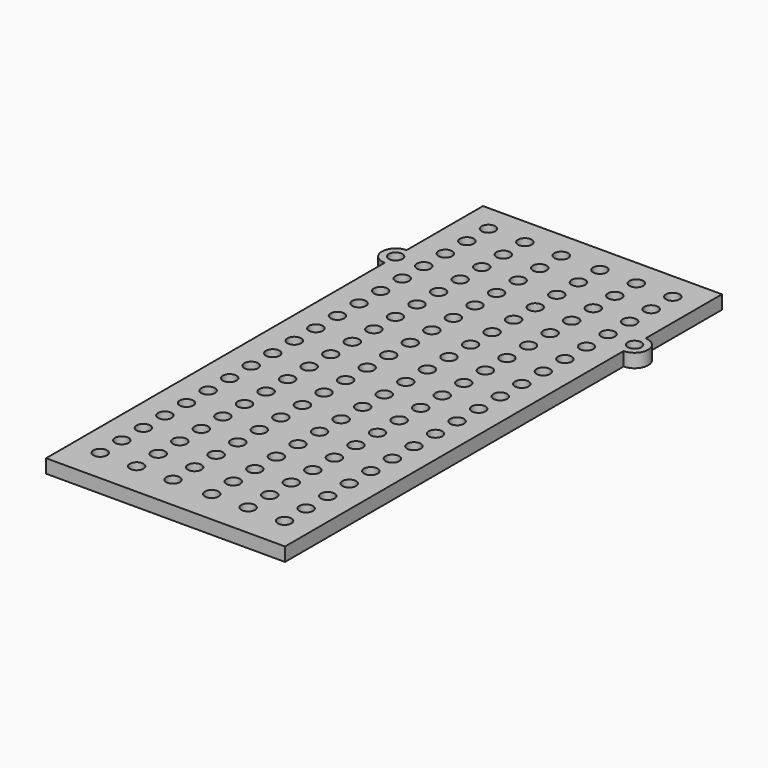
from build123d import *

# Parameters (mm, degrees)
F0_R     = 1.5
F1_DEPTH = 3
F2_R     = 1.5
F3_DEPTH = 25


with BuildPart() as f1:
    # F0 (on Top) → F1 (new body)
    with BuildSketch(Plane.XY):
        with BuildLine():
            Line((26.25, 60), (-26.25, 60))
            Line((-26.25, 60), (-26.25, 39))
            ThreePointArc((-26.25, 39), (-29.25, 36), (-26.25, 33))
            Line((-26.25, 33), (-26.25, -60))
            Line((-26.25, -60), (26.25, -60))
            Line((26.25, -60), (26.25, 33))
            ThreePointArc((26.25, 33), (29.25, 36), (26.25, 39))
            Line((26.25, 39), (26.25, 60))
        make_face()
        with Locations((-26.25, 36)):
            Circle(F0_R, mode=Mode.SUBTRACT)
        with Locations((26.25, 36)):
            Circle(F0_R, mode=Mode.SUBTRACT)
    extrude(amount=F1_DEPTH)

    # F2 (on face) → F3 (cut)
    with BuildSketch(Plane.XY.offset(3)):
        with Locations((-20.25, 54)):
            Circle(F2_R)
        with Locations((20.25, 54)):
            Circle(F2_R)
        with Locations((-12.25, 54)):
            Circle(F2_R)
        with Locations((12.25, 54)):
            Circle(F2_R)
        with Locations((-4.25, 54)):
            Circle(F2_R)
        with Locations((4.25, 54)):
            Circle(F2_R)
        with Locations((-20.25, 48.076243)):
            Circle(F2_R)
        with Locations((-12.25, 48.076243)):
            Circle(F2_R)
        with Locations((-4.25, 48.076243)):
            Circle(F2_R)
        with Locations((4.25, 48.076243)):
            Circle(F2_R)
        with Locations((12.25, 48.076243)):
            Circle(F2_R)
        with Locations((20.25, 48.076243)):
            Circle(F2_R)
        with Locations((-20.25, 42.152485)):
            Circle(F2_R)
        with Locations((-12.25, 42.152485)):
            Circle(F2_R)
        with Locations((-4.25, 42.152485)):
            Circle(F2_R)
        with Locations((4.25, 42.152485)):
            Circle(F2_R)
        with Locations((12.25, 42.152485)):
            Circle(F2_R)
        with Locations((20.25, 42.152485)):
            Circle(F2_R)
        with Locations((-20.25, 36.228728)):
            Circle(F2_R)
        with Locations((-12.25, 36.228728)):
            Circle(F2_R)
        with Locations((-4.25, 36.228728)):
            Circle(F2_R)
        with Locations((4.25, 36.228728)):
            Circle(F2_R)
        with Locations((12.25, 36.228728)):
            Circle(F2_R)
        with Locations((20.25, 36.228728)):
            Circle(F2_R)
        with Locations((-20.25, 30.304971)):
            Circle(F2_R)
        with Locations((-12.25, 30.304971)):
            Circle(F2_R)
        with Locations((-4.25, 30.304971)):
            Circle(F2_R)
        with Locations((4.25, 30.304971)):
            Circle(F2_R)
        with Locations((12.25, 30.304971)):
            Circle(F2_R)
        with Locations((20.25, 30.304971)):
            Circle(F2_R)
        with Locations((-20.25, 24.381214)):
            Circle(F2_R)
        with Locations((-12.25, 24.381214)):
            Circle(F2_R)
        with Locations((-4.25, 24.381214)):
            Circle(F2_R)
        with Locations((4.25, 24.381214)):
            Circle(F2_R)
        with Locations((12.25, 24.381214)):
            Circle(F2_R)
        with Locations((20.25, 24.381214)):
            Circle(F2_R)
        with Locations((-20.25, 18.457456)):
            Circle(F2_R)
        with Locations((-12.25, 18.457456)):
            Circle(F2_R)
        with Locations((-4.25, 18.457456)):
            Circle(F2_R)
        with Locations((4.25, 18.457456)):
            Circle(F2_R)
        with Locations((12.25, 18.457456)):
            Circle(F2_R)
        with Locations((20.25, 18.457456)):
            Circle(F2_R)
        with Locations((-20.25, 12.533699)):
            Circle(F2_R)
        with Locations((-12.25, 12.533699)):
            Circle(F2_R)
        with Locations((-4.25, 12.533699)):
            Circle(F2_R)
        with Locations((4.25, 12.533699)):
            Circle(F2_R)
        with Locations((12.25, 12.533699)):
            Circle(F2_R)
        with Locations((20.25, 12.533699)):
            Circle(F2_R)
        with Locations((-20.25, 6.609942)):
            Circle(F2_R)
        with Locations((-12.25, 6.609942)):
            Circle(F2_R)
        with Locations((-4.25, 6.609942)):
            Circle(F2_R)
        with Locations((4.25, 6.609942)):
            Circle(F2_R)
        with Locations((12.25, 6.609942)):
            Circle(F2_R)
        with Locations((20.25, 6.609942)):
            Circle(F2_R)
        with Locations((-20.25, 0.686185)):
            Circle(F2_R)
        with Locations((-12.25, 0.686185)):
            Circle(F2_R)
        with Locations((-4.25, 0.686185)):
            Circle(F2_R)
        with Locations((4.25, 0.686185)):
            Circle(F2_R)
        with Locations((12.25, 0.686185)):
            Circle(F2_R)
        with Locations((20.25, 0.686185)):
            Circle(F2_R)
        with Locations((-20.25, -5.237573)):
            Circle(F2_R)
        with Locations((-12.25, -5.237573)):
            Circle(F2_R)
        with Locations((-4.25, -5.237573)):
            Circle(F2_R)
        with Locations((4.25, -5.237573)):
            Circle(F2_R)
        with Locations((12.25, -5.237573)):
            Circle(F2_R)
        with Locations((20.25, -5.237573)):
            Circle(F2_R)
        with Locations((-20.25, -11.16133)):
            Circle(F2_R)
        with Locations((-12.25, -11.16133)):
            Circle(F2_R)
        with Locations((-4.25, -11.16133)):
            Circle(F2_R)
        with Locations((4.25, -11.16133)):
            Circle(F2_R)
        with Locations((12.25, -11.16133)):
            Circle(F2_R)
        with Locations((20.25, -11.16133)):
            Circle(F2_R)
        with Locations((-20.25, -17.085087)):
            Circle(F2_R)
        with Locations((-12.25, -17.085087)):
            Circle(F2_R)
        with Locations((-4.25, -17.085087)):
            Circle(F2_R)
        with Locations((4.25, -17.085087)):
            Circle(F2_R)
        with Locations((12.25, -17.085087)):
            Circle(F2_R)
        with Locations((20.25, -17.085087)):
            Circle(F2_R)
        with Locations((-20.25, -23.008844)):
            Circle(F2_R)
        with Locations((-12.25, -23.008844)):
            Circle(F2_R)
        with Locations((-4.25, -23.008844)):
            Circle(F2_R)
        with Locations((4.25, -23.008844)):
            Circle(F2_R)
        with Locations((12.25, -23.008844)):
            Circle(F2_R)
        with Locations((20.25, -23.008844)):
            Circle(F2_R)
        with Locations((-20.25, -28.932602)):
            Circle(F2_R)
        with Locations((-12.25, -28.932602)):
            Circle(F2_R)
        with Locations((-4.25, -28.932602)):
            Circle(F2_R)
        with Locations((4.25, -28.932602)):
            Circle(F2_R)
        with Locations((12.25, -28.932602)):
            Circle(F2_R)
        with Locations((20.25, -28.932602)):
            Circle(F2_R)
        with Locations((-20.25, -34.856359)):
            Circle(F2_R)
        with Locations((-12.25, -34.856359)):
            Circle(F2_R)
        with Locations((-4.25, -34.856359)):
            Circle(F2_R)
        with Locations((4.25, -34.856359)):
            Circle(F2_R)
        with Locations((12.25, -34.856359)):
            Circle(F2_R)
        with Locations((20.25, -34.856359)):
            Circle(F2_R)
        with Locations((-20.25, -40.780116)):
            Circle(F2_R)
        with Locations((-12.25, -40.780116)):
            Circle(F2_R)
        with Locations((-4.25, -40.780116)):
            Circle(F2_R)
        with Locations((4.25, -40.780116)):
            Circle(F2_R)
        with Locations((12.25, -40.780116)):
            Circle(F2_R)
        with Locations((20.25, -40.780116)):
            Circle(F2_R)
        with Locations((-20.25, -46.703873)):
            Circle(F2_R)
        with Locations((-12.25, -46.703873)):
            Circle(F2_R)
        with Locations((-4.25, -46.703873)):
            Circle(F2_R)
        with Locations((4.25, -46.703873)):
            Circle(F2_R)
        with Locations((12.25, -46.703873)):
            Circle(F2_R)
        with Locations((20.25, -46.703873)):
            Circle(F2_R)
        with Locations((-20.25, -52.627631)):
            Circle(F2_R)
        with Locations((-12.25, -52.627631)):
            Circle(F2_R)
        with Locations((-4.25, -52.627631)):
            Circle(F2_R)
        with Locations((4.25, -52.627631)):
            Circle(F2_R)
        with Locations((12.25, -52.627631)):
            Circle(F2_R)
        with Locations((20.25, -52.627631)):
            Circle(F2_R)
    extrude(amount=-F3_DEPTH, mode=Mode.SUBTRACT)


solid = f1.part
